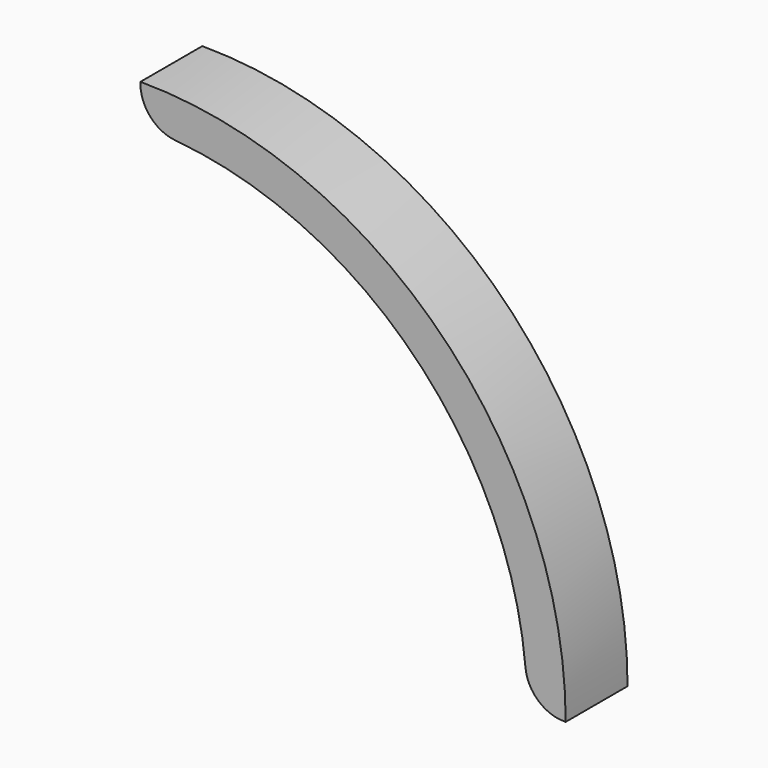
from build123d import *

# Parameters (mm, degrees)
F1_DEPTH = 10
F2_R     = 5


with BuildPart() as f1:
    # F0 (on Front) → F1 (new body)
    with BuildSketch(Plane.XZ):
        with BuildLine():
            ThreePointArc((0, 50), (35.355339, 35.355339), (50, 0))
            Line((50, 0), (55, 0))
            ThreePointArc((55, 0), (38.890873, 38.890873), (0, 55))
            Line((0, 55), (0, 50))
        make_face()
    extrude(amount=F1_DEPTH)

    # F2
    f2_edges = [f1.edges().sort_by_distance(p)[0] for p in [
        (50, -5, 0),
        (0, -5, 50),
    ]]
    fillet(f2_edges, radius=F2_R)


solid = f1.part
